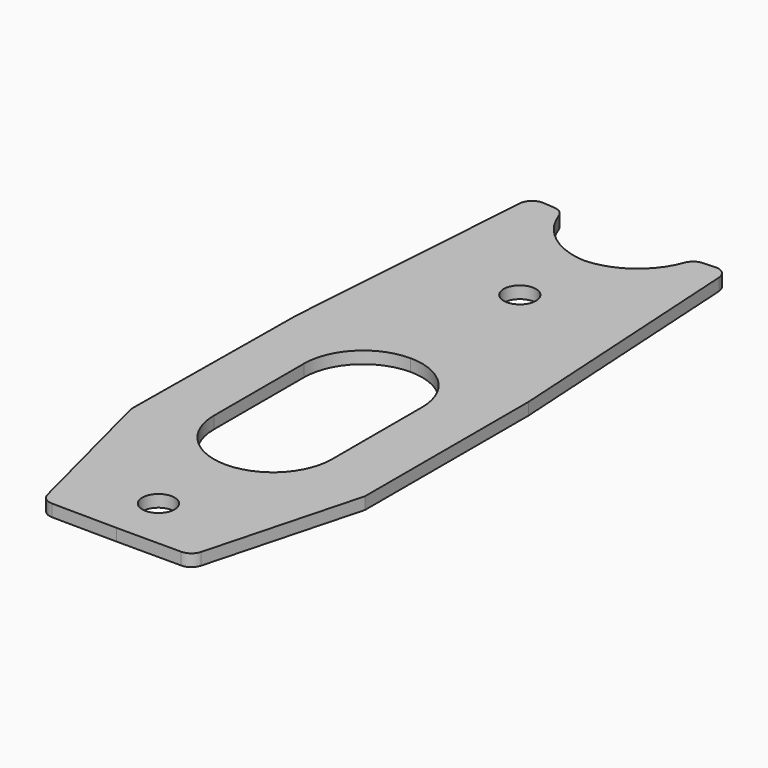
from build123d import *

# Parameters (mm, degrees)
F1_DEPTH = 6
F2_R     = 7.9883
F3_DEPTH = 25.4
F6_DEPTH = 25.4
F7_R     = 6.35


with BuildPart() as f1:
    # F0 (on Top) → F1 (new body)
    with BuildSketch(Plane.XY):
        with BuildLine():
            Line((1.470284, 287.84881), (0, 0))
            Line((0, 0), (36.98494, 0))
            Line((36.98494, 0), (58.59907, 80.73898))
            Line((58.59907, 80.73898), (58.59907, 182.05958))
            Line((58.59907, 182.05958), (50.6857, 315.67628))
            Line((50.6857, 315.67628), (34.044278, 314.690702))
            ThreePointArc((34.044278, 314.690702), (22.258545, 295.807244), (1.470284, 287.84881))
        make_face()
        with BuildLine():
            Line((-36.98301, 0.377816), (0, 0))
            Line((0, 0), (1.470284, 287.84881))
            ThreePointArc((1.470284, 287.84881), (-19.235594, 296.019189), (-30.82781, 315.022057))
            Line((-30.82781, 315.022057), (-47.458296, 316.177583))
            Line((-47.458296, 316.177583), (-56.736201, 182.648693))
            Line((-56.736201, 182.648693), (-57.771231, 81.33338))
            Line((-57.771231, 81.33338), (-36.98301, 0.377816))
        make_face()
    extrude(amount=F1_DEPTH)

    # F2 (on face) → F3 (cut)
    with BuildSketch(Plane.XY.offset(6)):
        with Locations((0, 249.86996)):
            Circle(F2_R)
        with Locations((0, 26.06802)):
            Circle(F2_R)
    extrude(amount=-F3_DEPTH, mode=Mode.SUBTRACT)

    # F5 (on face) → F6 (cut)
    with BuildSketch(Plane.XY.offset(6)):
        with BuildLine():
            ThreePointArc((-29.24937, 96.96323), (-20.682428, 76.280802), (0, 67.71386))
            ThreePointArc((0, 67.71386), (20.682428, 76.280802), (29.24937, 96.96323))
            Line((29.24937, 96.96323), (29.24937, 152.81021))
            ThreePointArc((29.24937, 152.81021), (20.682428, 173.492638), (0, 182.05958))
            ThreePointArc((0, 182.05958), (-20.682428, 173.492638), (-29.24937, 152.81021))
            Line((-29.24937, 152.81021), (-29.24937, 96.96323))
        make_face()
    extrude(amount=-F6_DEPTH, mode=Mode.SUBTRACT)

    # F7
    f7_edges = [f1.edges().sort_by_distance(p)[0] for p in [
        (-36.98301, 0.377816, 3),
        (36.98494, 0, 3),
        (50.6857, 315.67628, 3),
        (34.044278, 314.690702, 3),
        (-30.82781, 315.022057, 3),
        (-47.458296, 316.177583, 3),
    ]]
    fillet(f7_edges, radius=F7_R)


solid = f1.part
